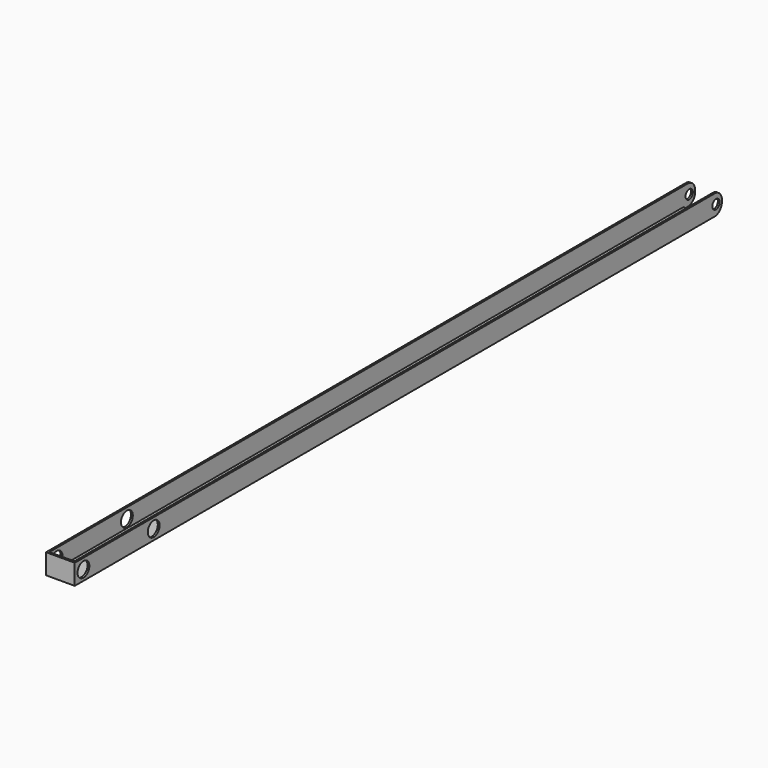
from build123d import *

# Parameters (mm, degrees)
F0_W      = 875
F0_H      = 22
F1_DEPTH  = 31
F2_T      = -2
F3_R      = 5
F4_DEPTH  = 61
F5_W      = 16
F5_H      = 16
F6_DEPTH  = 46
F7_R      = 8
F8_DEPTH  = 96
F9_R      = 10
F10_W     = 27
F10_H     = 21.5130257002
F11_DEPTH = 25
F12_W     = 27
F12_H     = 18.3594822884
F13_DEPTH = 25


with BuildPart() as f1:
    # F0 (on Right) → F1 (new body)
    with BuildSketch(Plane.YZ):
        with Locations((49.2357180723, -11)):
            Rectangle(F0_W, F0_H)
    extrude(amount=-F1_DEPTH)

    # F2
    f2_openings = [f1.faces().sort_by_distance(p)[0] for p in [
        (-15.5, 49.235718, 0),
    ]]
    offset(amount=F2_T, openings=f2_openings)

    # F3 (on face) → F4 (cut)
    with BuildSketch(Plane.YZ):
        with Locations((478.7357180723, -11)):
            Circle(F3_R)
    extrude(amount=-F4_DEPTH, mode=Mode.SUBTRACT)

    # F5 (on face) → F6 (cut)
    with BuildSketch(Plane.XY):
        with Locations((-18, 478.7357180723)):
            Rectangle(F5_W, F5_H)
    extrude(amount=-F6_DEPTH, mode=Mode.SUBTRACT)

    # F7 (on face) → F8 (cut)
    with BuildSketch(Plane.YZ):
        with Locations((-376.4913082123, -11)):
            Circle(F7_R)
        with Locations((-281.4913082123, -11)):
            Circle(F7_R)
    extrude(amount=-F8_DEPTH, mode=Mode.SUBTRACT)

    # F9
    f9_edges = [f1.edges().sort_by_distance(p)[0] for p in [
        (-5, 486.735718, 0),
        (-28.5, 486.735718, 0),
        (-6, 484.735718, -20),
        (-5, 486.735718, -22),
        (-27.5, 484.735718, -20),
        (-28.5, 486.735718, -22),
    ]]
    fillet(f9_edges, radius=F9_R)

    # F10 (on face) → F11 (cut)
    with BuildSketch(Plane.XY.offset(-20)):
        with Locations((-15.5, 481.4922309224)):
            Rectangle(F10_W, F10_H)
    extrude(amount=-F11_DEPTH, mode=Mode.SUBTRACT)

    # F12 (on face) → F13 (cut)
    with BuildSketch(Plane.XY.offset(-20)):
        with Locations((-15.5, 482.3970198631)):
            Rectangle(F12_W, F12_H)
    extrude(amount=F13_DEPTH, mode=Mode.SUBTRACT)


solid = f1.part
